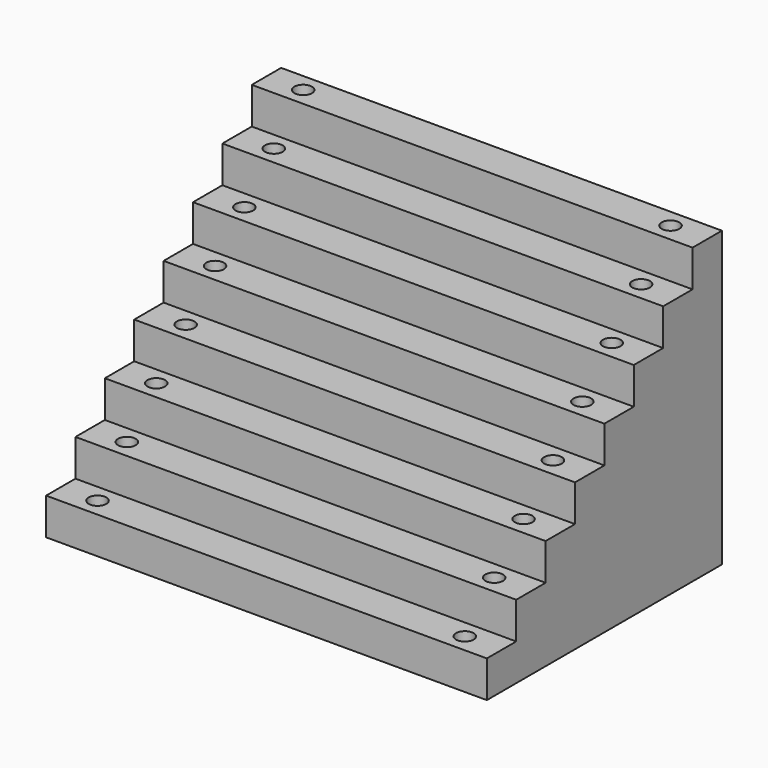
from build123d import *

# Parameters (mm, degrees)
SKETCH_W        = 30
SKETCH_H        = 20
PAD_DEPTH       = 10
SKETCH001_W     = 30
SKETCH001_H     = 2.5
POCKET_DEPTH    = 17.5
SKETCH002_W     = 30
SKETCH002_H     = 2.5
POCKET001_DEPTH = 15
SKETCH003_W     = 30
SKETCH003_H     = 2.5
POCKET002_DEPTH = 12.5
SKETCH004_W     = 30
SKETCH004_H     = 2.5
POCKET003_DEPTH = 10
SKETCH005_W     = 30
SKETCH005_H     = 2.5
POCKET004_DEPTH = 7.5
SKETCH006_W     = 30
SKETCH006_H     = 2.5
POCKET005_DEPTH = 5
SKETCH007_W     = 30
SKETCH007_H     = 2.5
POCKET006_DEPTH = 2.5
SKETCH008_R     = 0.6
POCKET007_DEPTH = 1.5
SKETCH009_R     = 0.6
POCKET008_DEPTH = 1.5
SKETCH010_R     = 0.6
POCKET009_DEPTH = 1.5
SKETCH011_R     = 0.6
POCKET010_DEPTH = 1.5
SKETCH012_R     = 0.6
POCKET011_DEPTH = 1.5
SKETCH013_R     = 0.6
POCKET012_DEPTH = 1.5
SKETCH014_R     = 0.6
POCKET013_DEPTH = 1.5
SKETCH015_R     = 0.6
POCKET014_DEPTH = 1.5


with BuildPart() as part:
    # Sketch → Pad (new body, symmetric)
    with BuildSketch(Plane.XY):
        Rectangle(SKETCH_W, SKETCH_H)
    extrude(amount=PAD_DEPTH, both=True)

    # Sketch001 → Pocket (cut)
    with BuildSketch(Plane.XY.offset(10)):
        with Locations((0, -8.75)):
            Rectangle(SKETCH001_W, SKETCH001_H)
    extrude(amount=-POCKET_DEPTH, mode=Mode.SUBTRACT)

    # Sketch002 → Pocket001 (cut)
    with BuildSketch(Plane.XY.offset(10)):
        with Locations((0, -6.25)):
            Rectangle(SKETCH002_W, SKETCH002_H)
    extrude(amount=-POCKET001_DEPTH, mode=Mode.SUBTRACT)

    # Sketch003 → Pocket002 (cut)
    with BuildSketch(Plane.XY.offset(10)):
        with Locations((0, -3.75)):
            Rectangle(SKETCH003_W, SKETCH003_H)
    extrude(amount=-POCKET002_DEPTH, mode=Mode.SUBTRACT)

    # Sketch004 → Pocket003 (cut)
    with BuildSketch(Plane.XY.offset(10)):
        with Locations((0, -1.25)):
            Rectangle(SKETCH004_W, SKETCH004_H)
    extrude(amount=-POCKET003_DEPTH, mode=Mode.SUBTRACT)

    # Sketch005 → Pocket004 (cut)
    with BuildSketch(Plane.XY.offset(10)):
        with Locations((0, 1.25)):
            Rectangle(SKETCH005_W, SKETCH005_H)
    extrude(amount=-POCKET004_DEPTH, mode=Mode.SUBTRACT)

    # Sketch006 → Pocket005 (cut)
    with BuildSketch(Plane.XY.offset(10)):
        with Locations((0, 3.75)):
            Rectangle(SKETCH006_W, SKETCH006_H)
    extrude(amount=-POCKET005_DEPTH, mode=Mode.SUBTRACT)

    # Sketch007 → Pocket006 (cut)
    with BuildSketch(Plane.XY.offset(10)):
        with Locations((0, 6.25)):
            Rectangle(SKETCH007_W, SKETCH007_H)
    extrude(amount=-POCKET006_DEPTH, mode=Mode.SUBTRACT)

    # Sketch008 → Pocket007 (cut)
    with BuildSketch(Plane.XY.offset(-7.5)):
        with Locations((-12.5, -8.75)):
            Circle(SKETCH008_R)
        with Locations((12.5, -8.75)):
            Circle(SKETCH008_R)
    extrude(amount=-POCKET007_DEPTH, mode=Mode.SUBTRACT)

    # Sketch009 → Pocket008 (cut)
    with BuildSketch(Plane.XY.offset(-5)):
        with Locations((-12.5, -6.25)):
            Circle(SKETCH009_R)
        with Locations((12.5, -6.25)):
            Circle(SKETCH009_R)
    extrude(amount=-POCKET008_DEPTH, mode=Mode.SUBTRACT)

    # Sketch010 → Pocket009 (cut)
    with BuildSketch(Plane.XY.offset(-2.5)):
        with Locations((-12.5, -3.75)):
            Circle(SKETCH010_R)
        with Locations((12.5, -3.75)):
            Circle(SKETCH010_R)
    extrude(amount=-POCKET009_DEPTH, mode=Mode.SUBTRACT)

    # Sketch011 → Pocket010 (cut)
    with BuildSketch(Plane.XY):
        with Locations((-12.5, -1.25)):
            Circle(SKETCH011_R)
        with Locations((12.5, -1.25)):
            Circle(SKETCH011_R)
    extrude(amount=-POCKET010_DEPTH, mode=Mode.SUBTRACT)

    # Sketch012 → Pocket011 (cut)
    with BuildSketch(Plane.XY.offset(2.5)):
        with Locations((-12.5, 1.25)):
            Circle(SKETCH012_R)
        with Locations((12.5, 1.25)):
            Circle(SKETCH012_R)
    extrude(amount=-POCKET011_DEPTH, mode=Mode.SUBTRACT)

    # Sketch013 → Pocket012 (cut)
    with BuildSketch(Plane.XY.offset(5)):
        with Locations((-12.5, 3.75)):
            Circle(SKETCH013_R)
        with Locations((12.5, 3.75)):
            Circle(SKETCH013_R)
    extrude(amount=-POCKET012_DEPTH, mode=Mode.SUBTRACT)

    # Sketch014 → Pocket013 (cut)
    with BuildSketch(Plane.XY.offset(7.5)):
        with Locations((-12.5, 6.25)):
            Circle(SKETCH014_R)
        with Locations((12.5, 6.25)):
            Circle(SKETCH014_R)
    extrude(amount=-POCKET013_DEPTH, mode=Mode.SUBTRACT)

    # Sketch015 → Pocket014 (cut)
    with BuildSketch(Plane.XY.offset(10)):
        with Locations((-12.5, 8.75)):
            Circle(SKETCH015_R)
        with Locations((12.5, 8.75)):
            Circle(SKETCH015_R)
    extrude(amount=-POCKET014_DEPTH, mode=Mode.SUBTRACT)


solid = part.part
